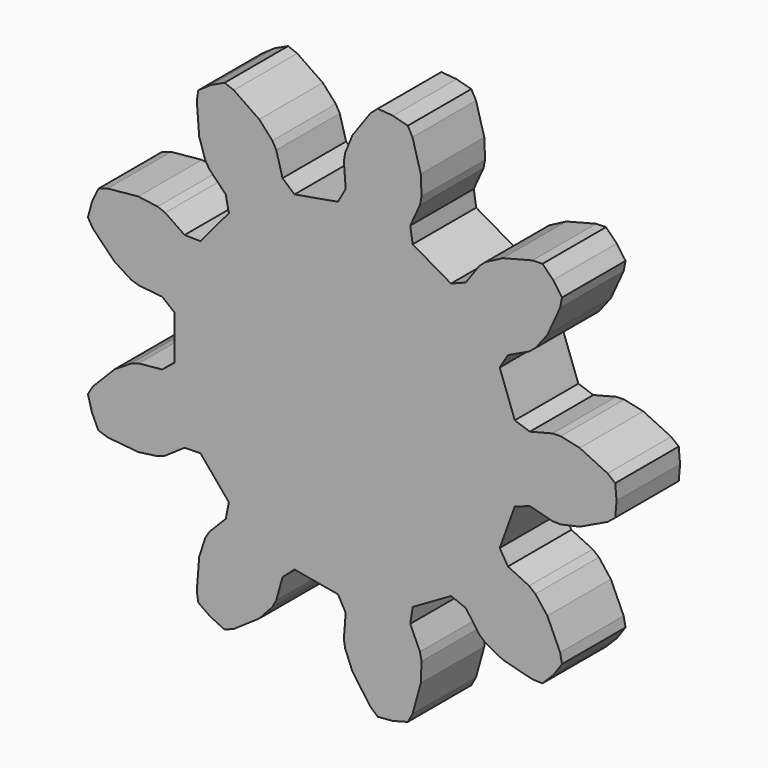
from build123d import *

# Parameters (mm, degrees)
F1_DEPTH = 6.83


with BuildPart() as f1:
    # F0 (on Front) → F1 (new body)
    with BuildSketch(Plane.XZ):
        Polygon((15.519771, -15.867663), (16.363313, -15.884129), (17.291792, -14.95565), (18.044936, -13.880049), (17.882241, -13.052181), (16.783051, -10.634822), (15.756368, -9.310512), (15.214718, -8.873741), (13.389754, -8.001385), (12.684403, -6.833367), (13.984836, -3.260458), (15.275953, -2.819095), (17.234696, -3.323895), (17.930376, -3.337475), (19.568111, -2.982934), (21.963987, -1.837675), (22.620762, -1.30807), (22.735203, 0), (22.620762, 1.30807), (21.963987, 1.837675), (19.568111, 2.982934), (17.930376, 3.337475), (17.234696, 3.323895), (15.275953, 2.819095), (13.984836, 3.260458), (12.684403, 6.833367), (13.389754, 8.001385), (15.214718, 8.873741), (15.756368, 9.310512), (16.783051, 10.634822), (17.882241, 13.052181), (18.044936, 13.880049), (17.291792, 14.95565), (16.363313, 15.884129), (15.519771, 15.867663), (12.948265, 15.204942), (11.465793, 14.423821), (10.9416, 13.966244), (9.765596, 12.320488), (8.49284, 11.828678), (5.200029, 13.729783), (4.989571, 15.077928), (5.826835, 16.919255), (5.961012, 17.602008), (5.896247, 19.276427), (5.184426, 21.834777), (4.776915, 22.573538), (3.50859, 22.913385), (2.20052, 23.027827), (1.564913, 22.472995), (0.021014, 20.312389), (-0.612531, 18.761101), (-0.719961, 18.073632), (-0.562961, 16.056989), (-1.221819, 14.862128), (-4.966266, 14.201881), (-5.994056, 15.09934), (-6.536257, 17.048062), (-6.872337, 17.657328), (-7.998246, 18.898377), (-10.188008, 20.400638), (-10.975046, 20.704619), (-12.165089, 20.149693), (-13.24069, 19.396549), (-13.370954, 18.562963), (-13.164839, 15.915443), (-12.653013, 14.319853), (-12.293413, 13.724166), (-10.876871, 12.280246), (-10.613544, 10.941424), (-13.057558, 8.028761), (-14.421767, 8.055604), (-16.089731, 9.199891), (-16.738811, 9.450588), (-18.399039, 9.677567), (-21.042128, 9.420813), (-21.84043, 9.147778), (-22.395356, 7.957735), (-22.735202, 6.68941), (-22.299172, 5.967114), (-20.439486, 4.071485), (-19.021779, 3.178187), (-18.363409, 2.953011), (-16.350141, 2.757439), (-15.287842, 1.901105), (-15.287842, -1.901105), (-16.350141, -2.757439), (-18.363409, -2.953011), (-19.021779, -3.178187), (-20.439486, -4.071485), (-22.299172, -5.967114), (-22.735202, -6.68941), (-22.395356, -7.957735), (-21.84043, -9.147778), (-21.042128, -9.420813), (-18.399039, -9.677567), (-16.738811, -9.450588), (-16.089731, -9.199891), (-14.421767, -8.055604), (-13.057558, -8.028761), (-10.613544, -10.941424), (-10.876871, -12.280246), (-12.293413, -13.724166), (-12.653013, -14.319853), (-13.164839, -15.915443), (-13.370954, -18.562963), (-13.24069, -19.396549), (-12.165089, -20.149693), (-10.975046, -20.704619), (-10.188008, -20.400638), (-7.998246, -18.898377), (-6.872337, -17.657328), (-6.536257, -17.048062), (-5.994056, -15.09934), (-4.966266, -14.201881), (-1.221819, -14.862128), (-0.562961, -16.056989), (-0.719961, -18.073632), (-0.612531, -18.761101), (0.021014, -20.312389), (1.564913, -22.472995), (2.20052, -23.027827), (3.50859, -22.913385), (4.776915, -22.573538), (5.184426, -21.834777), (5.896247, -19.276427), (5.961012, -17.602008), (5.826835, -16.919255), (4.989571, -15.077928), (5.200029, -13.729783), (8.49284, -11.828678), (9.765596, -12.320488), (10.9416, -13.966244), (11.465793, -14.423821), (12.948265, -15.204942), align=None)
    extrude(amount=F1_DEPTH)


solid = f1.part
